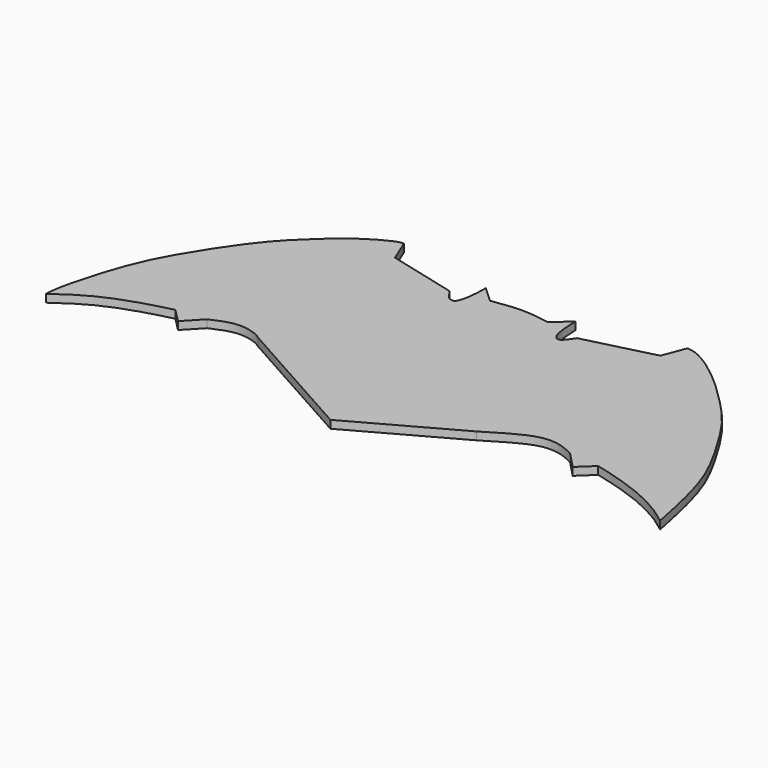
from build123d import *

# Parameters (mm, degrees)
F1_DEPTH = 5


with BuildPart() as f1:
    # F0 (on Top) → F1 (new body)
    with BuildSketch(Plane.XY):
        with BuildLine():
            add(Edge.make_bspline(
                [(90.6907990575, 97.9469045997), (92.5506797048, 97.7076608643), (97.3714835458, 97.0875419767), (111.3982823465, 88.6117833473), (121.080150162, 80.1037886779), (126.2320578098, 75.5765214562)],
                knots=[0, 0, 0, 0, 0.2271401523, 0.5887464448, 1, 1, 1, 1], degree=3))
            Line((90.6907990575, 97.9469045997), (85.0284695625, 83.2098796964))
            Line((85.0284695625, 83.2098796964), (40.8717952669, 72.0387473702))
            add(Edge.make_bspline(
                [(40.8717952669, 72.0387473702), (39.4639939865, 69.9245000162), (37.1445701485, 66.4411705287), (33.9493519923, 64.4696102192), (29.6565838044, 68.4823153989), (29.2317022817, 78.7511303066), (28.945825994, 85.6603756547)],
                knots=[0, 0, 0, 0, 0.2489757455, 0.4102001378, 0.6031604435, 1, 1, 1, 1], degree=3))
            Line((28.945825994, 85.6603756547), (18.8582092524, 76.4733627439))
            add(Edge.make_bspline(
                [(-18.1637965143, 76.4733627439), (-14.1437358291, 77.1075253303), (-6.0536026016, 78.3837398489), (6.5737675387, 78.534699391), (14.7693251616, 77.1594799333), (18.8582092524, 76.4733627439)],
                knots=[0, 0, 0, 0, 0.331071517, 0.6662617533, 1, 1, 1, 1], degree=3))
            Line((-18.1637965143, 76.4733627439), (-28.2951612025, 85.8325883746))
            add(Edge.make_bspline(
                [(-40.3230860829, 72.0387473702), (-39.088224818, 70.1720803209), (-37.0503190798, 67.0914982353), (-35.1522700417, 65.3354549205), (-31.9776770355, 64.7647193737), (-30.3977678177, 67.0311278125), (-28.4521818074, 74.4454913779), (-28.3514925601, 81.747451692), (-28.2951612025, 85.8325883746)],
                knots=[0, 0, 0, 0, 0.183795483, 0.303319798, 0.4263136272, 0.5389125099, 0.7420411316, 1, 1, 1, 1], degree=3))
            Line((-40.3230860829, 72.0387473702), (-84.1391906142, 83.2098796964))
            Line((-84.1391906142, 83.2098796964), (-90.1290997863, 97.9469045997))
            add(Edge.make_bspline(
                [(-90.1290997863, 97.9469045997), (-91.2780209136, 97.8755945292), (-94.8799122656, 97.6520359926), (-112.2832793798, 87.9203392551), (-121.5116369775, 79.7034292861), (-126.1465400457, 75.5765214562)],
                knots=[0, 0, 0, 0, 0.1890607113, 0.5927092164, 1, 1, 1, 1], degree=3))
            add(Edge.make_bspline(
                [(-126.1465400457, 75.5765214562), (-132.559519944, 69.6540069441), (-147.2325322521, 56.1031881811), (-173.7268363632, 15.3201798146), (-185.3013561139, -10.9793593897), (-194.7659689395, -44.6073790263), (-195.2399434774, -52.7711224043), (-195.410117507, -55.7022020221)],
                knots=[0, 0, 0, 0, 0.1990617008, 0.4554567194, 0.6642768347, 0.8794632215, 1, 1, 1, 1], degree=3))
            add(Edge.make_bspline(
                [(-195.410117507, -55.7022020221), (-189.2443233147, -51.3534252403), (-176.6787449134, -42.490836919), (-153.3171130308, -33.7752578796), (-140.3890181065, -30.5398782143), (-134.3097835779, -29.0184915066)],
                knots=[0, 0, 0, 0, 0.3379220853, 0.6886682111, 1, 1, 1, 1], degree=3))
            Line((-134.3097835779, -29.0184915066), (-125.7226914167, -37.7225726843))
            Line((-125.7226914167, -37.7225726843), (-115.6381219625, -27.0764511079))
            add(Edge.make_bspline(
                [(-115.6381219625, -27.0764511079), (-112.3214448117, -25.6089260502), (-105.9657828163, -22.7967460241), (-97.1811480846, -21.5375744889), (-87.7828374292, -23.7605556506), (-84.2924143647, -26.0591359078), (-82.7476084232, -27.0764511079)],
                knots=[0, 0, 0, 0, 0.2773913223, 0.5315577625, 0.7926748883, 1, 1, 1, 1], degree=3))
            Line((-82.7476084232, -27.0764511079), (0, -73.3860805631))
            Line((0, -73.3860805631), (0.147642626, -73.3210891485))
            Line((0.147642626, -73.3210891485), (64.6225735545, -37.7225726843))
            add(Edge.make_bspline(
                [(64.6225735545, -37.7225726843), (73.0666381112, -32.529493092), (87.0501240706, -23.9296825297), (99.0743607688, -21.6967578796), (108.2136687045, -23.3658879949), (113.2473852724, -25.8509101796), (115.729868412, -27.0764511079)],
                knots=[0, 0, 0, 0, 0.3591296563, 0.5947236041, 0.800129426, 1, 1, 1, 1], degree=3))
            Line((115.729868412, -27.0764511079), (125.9138733149, -37.7225726843))
            Line((125.9138733149, -37.7225726843), (135.1518183947, -29.0184915066))
            add(Edge.make_bspline(
                [(196.0572302341, -55.7022020221), (192.7366020121, -53.1840689017), (185.2187189114, -47.4830300727), (166.9431190304, -38.1587419464), (145.4004429365, -31.4769398334), (138.082034766, -29.7213941747), (135.1518183947, -29.0184915066)],
                knots=[0, 0, 0, 0, 0.2245071862, 0.508282972, 0.8031214914, 1, 1, 1, 1], degree=3))
            add(Edge.make_bspline(
                [(126.2320578098, 75.5765214562), (134.7565386666, 67.382737054), (151.0099741889, 51.7598330082), (166.021851899, 28.1874163152), (182.5105457126, -0.6670200083), (190.1905976163, -26.8526885409), (194.0803362932, -45.9807089416), (196.0572302341, -55.7022020221)],
                knots=[0, 0, 0, 0, 0.2126150187, 0.4053882641, 0.6130102113, 0.8033189805, 1, 1, 1, 1], degree=3))
        make_face()
    extrude(amount=F1_DEPTH)


solid = f1.part
